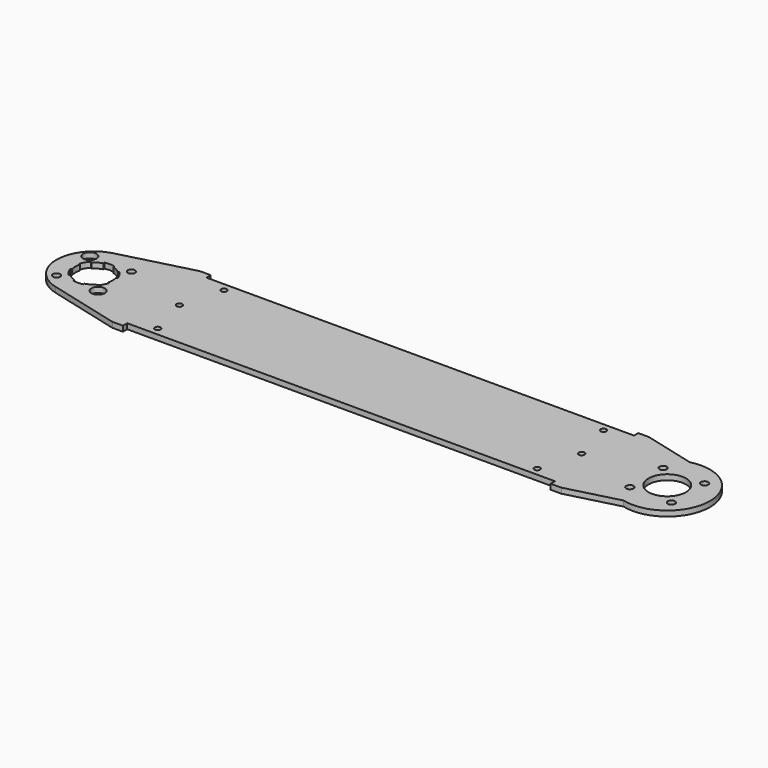
from build123d import *

# Parameters (mm, degrees)
F0_R     = 1.7272
F0_R_2   = 2.15265
F0_R_3   = 3.96875
F0_R_4   = 11.1125
F1_DEPTH = 3.175
F3_DEPTH = 3.175
F4_COUNT = 6
F4_ANGLE = 300


with BuildPart() as f1:
    # F0 (on Top) → F1 (new body)
    with BuildSketch(Plane.XY):
        with BuildLine():
            Line((-303.6125627, 32.54375), (-346.1094200534, 21.5120031198))
            ThreePointArc((-346.1094200534, 21.5120031198), (-362.7501254, 0), (-346.1094200534, -21.5120031198))
            Line((-346.1094200534, -21.5120031198), (-303.6125627, -32.54375))
            Line((-303.6125627, -32.54375), (-297.2625627, -32.54375))
            Line((-297.2625627, -32.54375), (-297.2625627, -29.36875))
            Line((-297.2625627, -29.36875), (-43.2625627, -29.36875))
            Line((-43.2625627, -29.36875), (-43.2625627, -32.54375))
            Line((-43.2625627, -32.54375), (-36.9125627, -32.54375))
            Line((-36.9125627, -32.54375), (-6.2993370693, -24.5968716335))
            ThreePointArc((-6.2993370693, -24.5968716335), (25.3907018743, 0), (-6.2993370693, 24.5968716335))
            Line((-6.2993370693, 24.5968716335), (-36.9125627, 32.54375))
            Line((-36.9125627, 32.54375), (-43.2625627, 32.54375))
            Line((-43.2625627, 32.54375), (-43.2625627, 29.36875))
            Line((-43.2625627, 29.36875), (-297.2625627, 29.36875))
            Line((-297.2625627, 29.36875), (-297.2625627, 32.54375))
            Line((-297.2625627, 32.54375), (-303.6125627, 32.54375))
        make_face()
        with Locations((-282.9750627, -24.60625)):
            Circle(F0_R, mode=Mode.SUBTRACT)
        with Locations((-352.8729798, -12.3478544)):
            Circle(F0_R_2, mode=Mode.SUBTRACT)
        with Locations((-328.177271, -12.3478544)):
            Circle(F0_R_3, mode=Mode.SUBTRACT)
        with Locations((-57.5500627, -24.60625)):
            Circle(F0_R, mode=Mode.SUBTRACT)
        with Locations((-12.3478544, -12.3478544)):
            Circle(F0_R_2, mode=Mode.SUBTRACT)
        with Locations((12.3478544, -12.3478544)):
            Circle(F0_R_2, mode=Mode.SUBTRACT)
        with Locations((-340.5251254, 0)):
            Circle(F0_R_4, mode=Mode.SUBTRACT)
        with Locations((-289.7251254, 0)):
            Circle(F0_R, mode=Mode.SUBTRACT)
        with Locations((-352.8729798, 12.3478544)):
            Circle(F0_R_3, mode=Mode.SUBTRACT)
        with Locations((-328.177271, 12.3478544)):
            Circle(F0_R_2, mode=Mode.SUBTRACT)
        with Locations((-282.9750627, 24.60625)):
            Circle(F0_R, mode=Mode.SUBTRACT)
        with Locations((-50.8, 0)):
            Circle(F0_R, mode=Mode.SUBTRACT)
        Circle(F0_R_4, mode=Mode.SUBTRACT)
        with Locations((-12.3478544, 12.3478544)):
            Circle(F0_R_2, mode=Mode.SUBTRACT)
        with Locations((12.3478544, 12.3478544)):
            Circle(F0_R_2, mode=Mode.SUBTRACT)
        with Locations((-57.5500627, 24.60625)):
            Circle(F0_R, mode=Mode.SUBTRACT)
    extrude(amount=F1_DEPTH)

    # F2 (on face) → F3 (cut, through all)
    with BuildSketch(Plane(origin=(0, 0, 0), x_dir=(1, 0, 0), z_dir=(0, 0, -1))):
        with BuildLine():
            ThreePointArc((-348.3828495059, -7.8577241059), (-350.1488326996, -5.55625), (-351.2589761446, -2.8761266387))
            Line((-351.2589761446, -2.8761266387), (-352.0256797693, -3.0815642558))
            ThreePointArc((-352.0256797693, -3.0815642558), (-350.8362403638, -5.953125), (-348.9441155135, -8.4189901135))
            Line((-348.9441155135, -8.4189901135), (-348.3828495059, -7.8577241059))
        make_face()
    f3 = extrude(amount=-F3_DEPTH, mode=Mode.SUBTRACT)

    # F4: F3 ×6 about axis
    f4_axis = Axis((-340.5251254, 0, 0), (0, 0, -1))
    for i in range(1, F4_COUNT):
        add(f3.rotate(f4_axis, i * F4_ANGLE / (F4_COUNT - 1)), mode=Mode.SUBTRACT)


solid = f1.part
